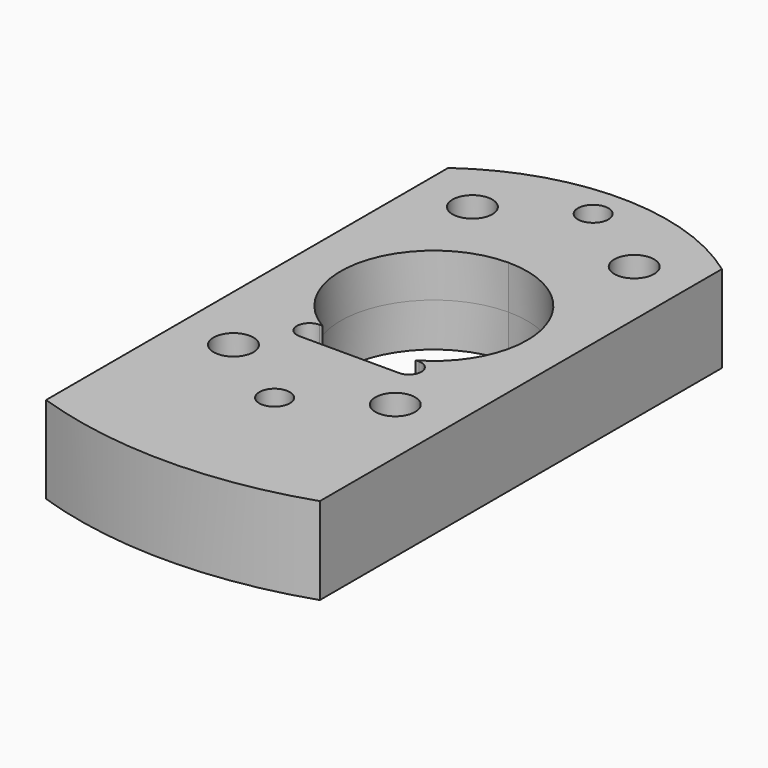
from build123d import *

# Parameters (mm, degrees)
F0_R          = 3.2
F0_R_2        = 2.45
F1_DEPTH      = 7
F1_DEPTH_BACK = 7
F3_DEPTH      = 25
F3_DEPTH_BACK = 25


with BuildPart() as f1:
    # F0 (on Top) → F1 (new body, two sides)
    with BuildSketch(Plane.XY) as f1_sk:
        with BuildLine():
            ThreePointArc((22, 30.368569), (0, 37.5), (-22, 30.368569))
            Line((-22, 30.368569), (-22, -50.398777))
            ThreePointArc((-22, -50.398777), (0, -54), (22, -50.398777))
            Line((22, -50.398777), (22, 2.298294))
            Line((22, 2.298294), (22, 30.368569))
        make_face()
        with Locations((-13, -24)):
            Circle(F0_R, mode=Mode.SUBTRACT)
        with Locations((0, -32)):
            Circle(F0_R_2, mode=Mode.SUBTRACT)
        with Locations((13, -24)):
            Circle(F0_R, mode=Mode.SUBTRACT)
        with Locations((-13, 24)):
            Circle(F0_R, mode=Mode.SUBTRACT)
        with BuildLine():
            ThreePointArc((0, 15), (7.5, 12.990381), (12.990381, 7.5))
            ThreePointArc((12.990381, 7.5), (14.488887, 3.882286), (15, 0))
            ThreePointArc((15, 0), (-10.606602, -10.606602), (0, 15))
        make_face(mode=Mode.SUBTRACT)
        with Locations((0, 32)):
            Circle(F0_R_2, mode=Mode.SUBTRACT)
        with Locations((13, 24)):
            Circle(F0_R, mode=Mode.SUBTRACT)
    extrude(amount=F1_DEPTH)
    extrude(f1_sk.sketch, amount=-F1_DEPTH_BACK)

    # F2 (on Top) → F3 (cut, two sides)
    with BuildSketch(Plane.XY) as f3_sk:
        with BuildLine():
            Line((0, -13), (-8, -13))
            ThreePointArc((-8, -13), (-10, -15), (-8, -17))
            Line((-8, -17), (0, -17))
            Line((0, -17), (8, -17))
            ThreePointArc((8, -17), (10, -15), (8, -13))
            Line((8, -13), (0, -13))
        make_face()
    extrude(amount=F3_DEPTH, mode=Mode.SUBTRACT)
    extrude(f3_sk.sketch, amount=-F3_DEPTH_BACK, mode=Mode.SUBTRACT)


solid = f1.part
